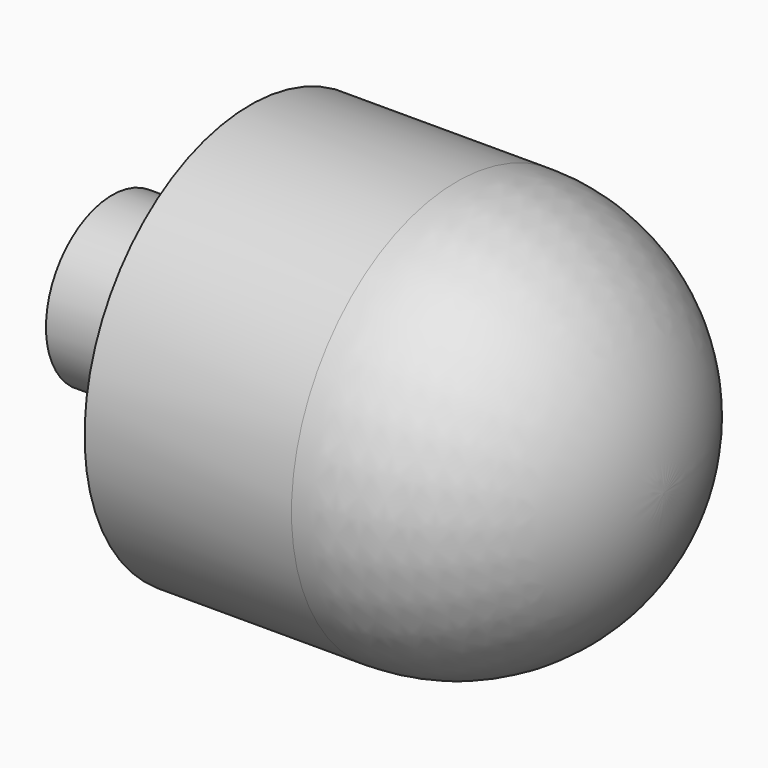
from build123d import *


with BuildPart() as f1:
    # F0 (on Top) → F1 (revolve)
    with BuildSketch(Plane.XY):
        with BuildLine():
            Line((0, 6), (0, 0))
            Line((0, 0), (40, 0))
            ThreePointArc((40, 0), (35.606602, 10.606602), (25, 15))
            Line((25, 15), (10, 15))
            Line((10, 15), (10, 6))
            Line((10, 6), (0, 6))
        make_face()
    revolve(axis=Axis((20, 0, 0), (-1, 0, 0)))


solid = f1.part
